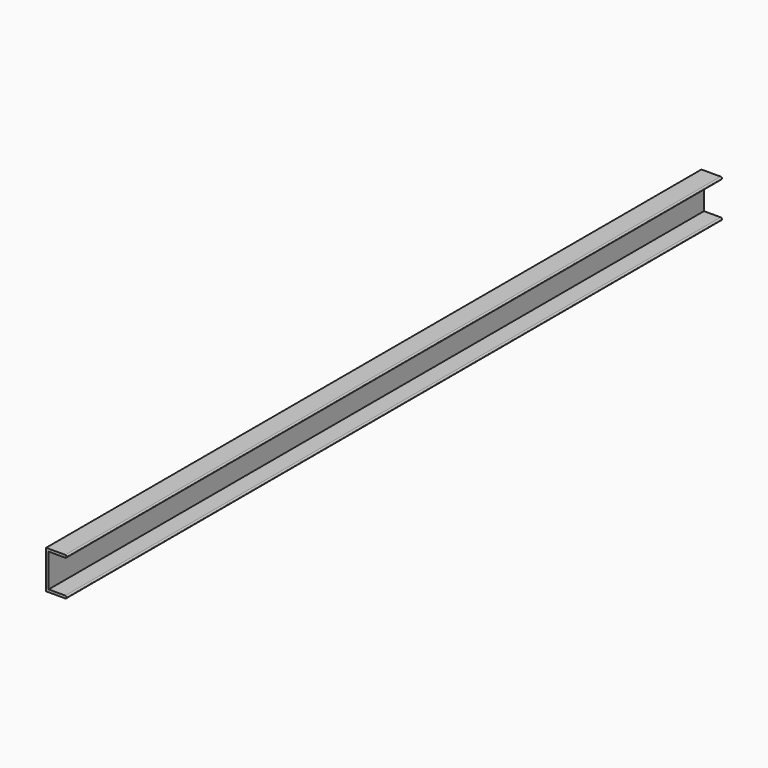
from build123d import *

# Parameters (mm, degrees)
F1_DEPTH = 1600


with BuildPart() as f1:
    # F0 (on Front) → F1 (new body)
    with BuildSketch(Plane.XZ):
        with BuildLine():
            Line((0, 75), (0, 0))
            Line((0, 0), (37.5, 0))
            ThreePointArc((37.5, 0), (39.267767, 0.732233), (40, 2.5))
            ThreePointArc((40, 2.5), (39.267767, 4.267767), (37.5, 5))
            Line((37.5, 5), (5, 5))
            Line((5, 5), (5, 70))
            Line((5, 70), (37.5, 70))
            ThreePointArc((37.5, 70), (39.267767, 70.732233), (40, 72.5))
            ThreePointArc((40, 72.5), (39.267767, 74.267767), (37.5, 75))
            Line((37.5, 75), (0, 75))
        make_face()
    extrude(amount=F1_DEPTH)


solid = f1.part
